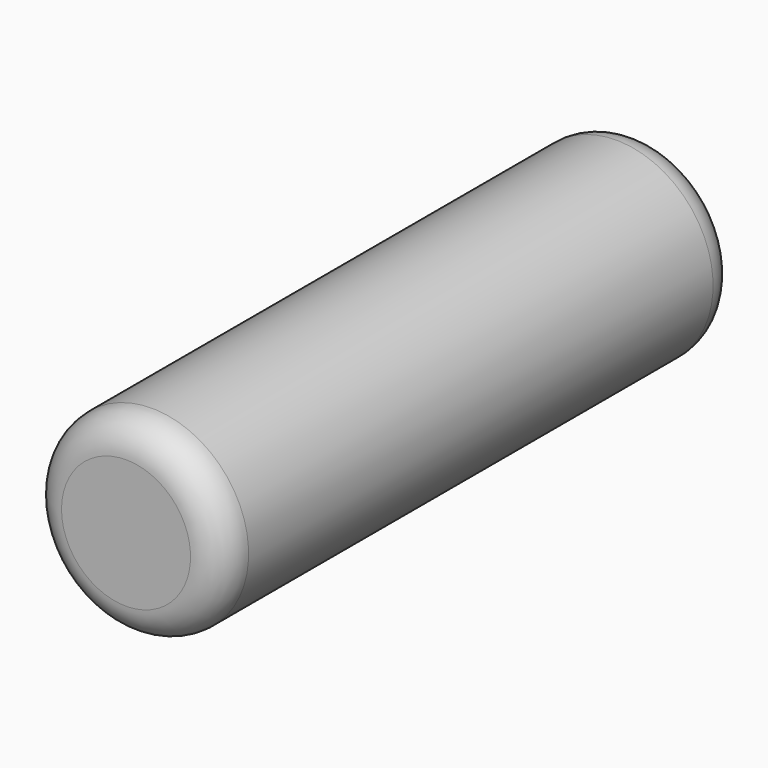
from build123d import *

# Parameters (mm, degrees)
F0_W     = 15
F0_H     = 100
F2_R     = 3.9
F3_DEPTH = 10
F4_R     = 5


with BuildPart() as f1:
    # F0 (on Top) → F1 (revolve)
    with BuildSketch(Plane.XY):
        with Locations((-7.5, -50)):
            Rectangle(F0_W, F0_H)
    revolve(axis=Axis((0, -50, 0), (0, 1, 0)))

    # F2 (on face) → F3 (cut)
    with BuildSketch(Plane(origin=(0, 0, 0), x_dir=(-1, 0, 0), z_dir=(0, 1, 0))):
        Circle(F2_R)
    extrude(amount=-F3_DEPTH, mode=Mode.SUBTRACT)

    # F4
    f4_edges = [f1.edges().sort_by_distance(p)[0] for p in [
        (15, 0, 0),
        (15, -100, 0),
    ]]
    fillet(f4_edges, radius=F4_R)


solid = f1.part
